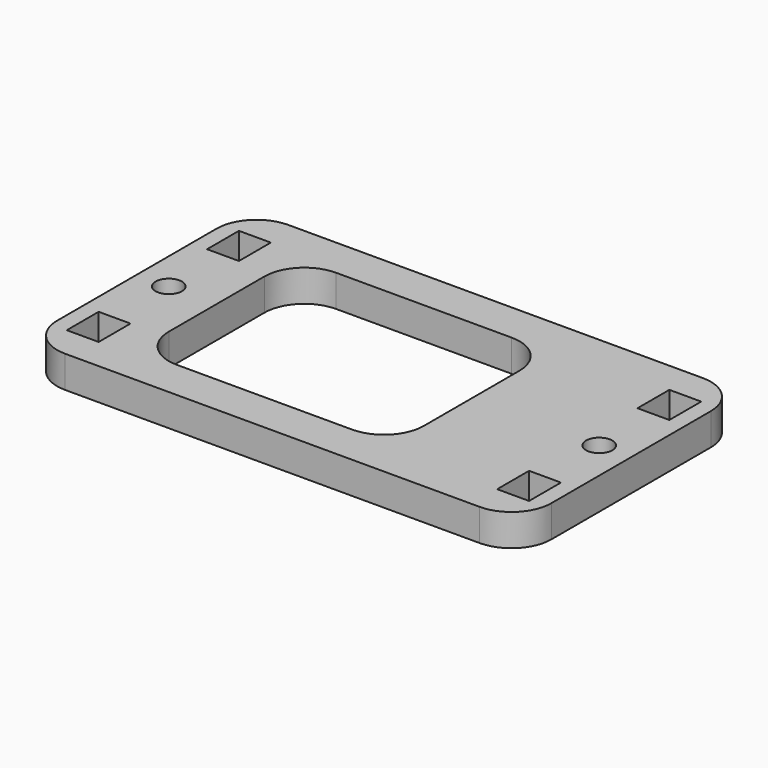
from build123d import *

# Parameters (mm, degrees)
F0_W     = 62
F0_H     = 35
F0_W_2   = 4
F0_H_2   = 5
F0_W_3   = 32
F0_H_3   = 25
F1_DEPTH = 4
F2_D     = 3.3
F3_R     = 5
F4_R     = 5


with BuildPart() as f1:
    # F0 (on Top) → F1 (new body)
    with BuildSketch(Plane.XY):
        Rectangle(F0_W, F0_H)
        with Locations((-27, -11)):
            Rectangle(F0_W_2, F0_H_2, mode=Mode.SUBTRACT)
        with Locations((27, -11)):
            Rectangle(F0_W_2, F0_H_2, mode=Mode.SUBTRACT)
        with Locations((-5, 0)):
            Rectangle(F0_W_3, F0_H_3, mode=Mode.SUBTRACT)
        with Locations((-27, 11)):
            Rectangle(F0_W_2, F0_H_2, mode=Mode.SUBTRACT)
        with Locations((27, 11)):
            Rectangle(F0_W_2, F0_H_2, mode=Mode.SUBTRACT)
    extrude(amount=F1_DEPTH)

    # F2 (through all)
    with Locations(Plane(origin=(0, 0, 0), x_dir=(1, 0, 0), z_dir=(0, 0, -1))):
        with Locations((-27, 0), (27, 0)):
            Hole(F2_D / 2)

    # F3
    f3_edges = [f1.edges().sort_by_distance(p)[0] for p in [
        (-31, -17.5, 2),
        (31, -17.5, 2),
        (31, 17.5, 2),
        (-31, 17.5, 2),
    ]]
    fillet(f3_edges, radius=F3_R)

    # F4
    f4_edges = [f1.edges().sort_by_distance(p)[0] for p in [
        (-21, 12.5, 2),
        (11, 12.5, 2),
        (11, -12.5, 2),
        (-21, -12.5, 2),
    ]]
    fillet(f4_edges, radius=F4_R)


solid = f1.part
